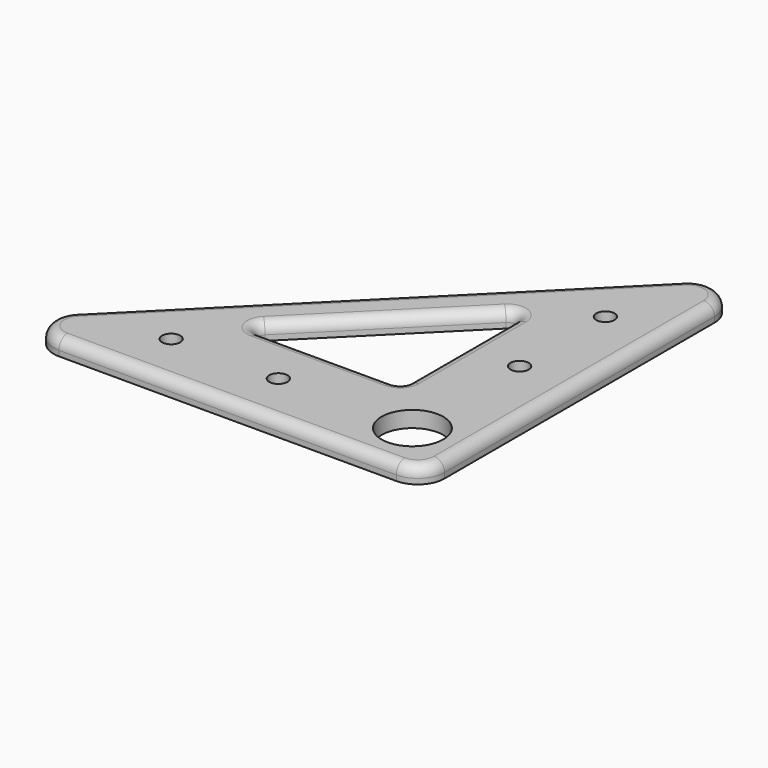
from build123d import *

# Parameters (mm, degrees)
F1_DEPTH = 3
F2_R     = 5.75
F2_R_2   = 1.7
F3_DEPTH = 3
F4_R     = 1.5
F5_R     = 5
F6_R     = 2
F7_R     = 2


with BuildPart() as f1:
    # F0 (on Top) → F1 (new body)
    with BuildSketch(Plane.XY):
        Polygon((50.8348240464, 59.6463644877), (-29.1651759536, -20.3536355123), (50.8348240464, -20.3536355123), align=None)
    extrude(amount=F1_DEPTH)

    # F2 (on face) → F3 (cut, through all)
    with BuildSketch(Plane.XY.offset(3)):
        Polygon((0.734318983, -0.3536355123), (30.8348240464, -0.3536355123), (30.8348240464, 29.7468695511), align=None)
        with Locations((40.8348240464, -10.3536355123)):
            Circle(F2_R)
        with Locations((15.8348240464, -10.3536355123)):
            Circle(F2_R_2)
        with Locations((-4.1651759536, -10.3536355123)):
            Circle(F2_R_2)
        with Locations((40.8348240464, 14.6463644877)):
            Circle(F2_R_2)
        with Locations((40.8348240464, 34.6463644877)):
            Circle(F2_R_2)
    extrude(amount=-F3_DEPTH, mode=Mode.SUBTRACT)

    # F4
    f4_edges = [f1.edges().sort_by_distance(p)[0] for p in [
        (0.734319, -0.353636, 1.5),
        (30.834824, -0.353636, 1.5),
        (30.834824, 29.74687, 1.5),
    ]]
    fillet(f4_edges, radius=F4_R)

    # F5
    f5_edges = [f1.edges().sort_by_distance(p)[0] for p in [
        (-29.165176, -20.353636, 1.5),
        (50.834824, -20.353636, 1.5),
        (50.834824, 59.646364, 1.5),
    ]]
    fillet(f5_edges, radius=F5_R)

    # F6
    f6_edges = [f1.edges().sort_by_distance(p)[0] for p in [
        (14.370358, -20.353636, 3),
        (49.370358, -18.889169, 3),
        (50.834824, 16.110831, 3),
        (-21.713506, -17.267053, 3),
        (10.834824, 19.646364, 3),
        (47.748241, 52.194694, 3),
    ]]
    fillet(f6_edges, radius=F6_R)

    # F7
    f7_edges = [f1.edges().sort_by_distance(p)[0] for p in [
        (16.845232, -0.353636, 3),
        (30.834824, 13.635957, 3),
        (15.784572, 14.696617, 3),
        (30.395484, 0.085704, 3),
        (2.96982, 0.572339, 3),
        (29.908849, 27.511369, 3),
    ]]
    fillet(f7_edges, radius=F7_R)


solid = f1.part
